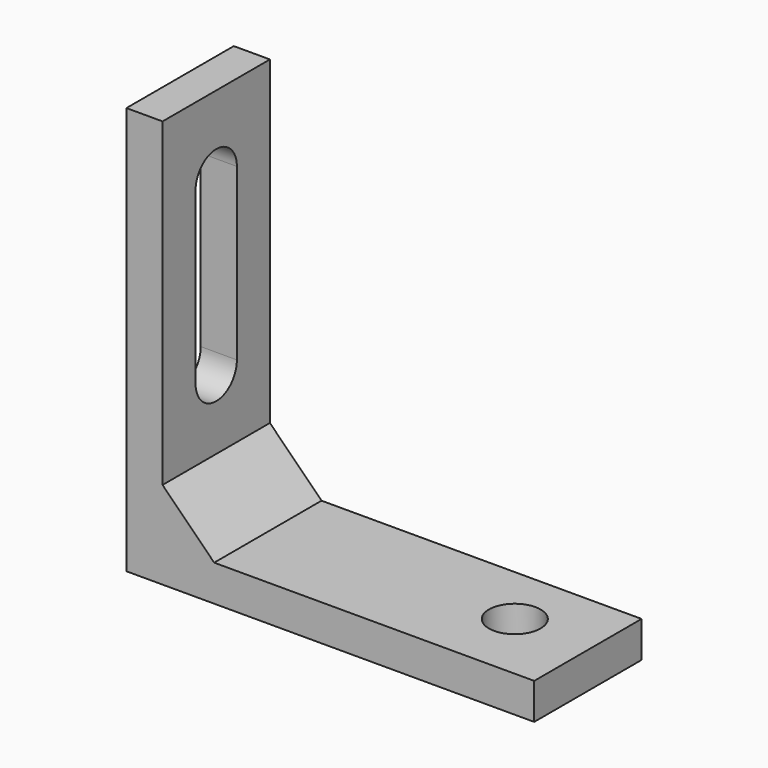
from build123d import *

# Parameters (mm, degrees)
F1_DEPTH = 13
F3_DEPTH = 25
F4_R     = 2.5
F5_DEPTH = 25
F6_SIZE  = 5


with BuildPart() as f1:
    # F0 (on Front) → F1 (new body)
    with BuildSketch(Plane.XZ):
        Polygon((0, -3.5), (0, 0), (-36, 0), (-36, 36), (-39.5, 36), (-39.5, -3.5), align=None)
    extrude(amount=F1_DEPTH)

    # F2 (on face) → F3 (cut)
    with BuildSketch(Plane.YZ.offset(-36)):
        with BuildLine():
            ThreePointArc((-9, 28.5), (-6.5, 26), (-4, 28.5))
            ThreePointArc((-4, 28.5), (-6.5, 31), (-9, 28.5))
        make_face()
        with BuildLine():
            Line((-4, 12), (-4, 28.5))
            ThreePointArc((-4, 28.5), (-6.5, 26), (-9, 28.5))
            Line((-9, 28.5), (-9, 12))
            ThreePointArc((-9, 12), (-6.5, 14.5), (-4, 12))
        make_face()
        with BuildLine():
            ThreePointArc((-9, 12), (-6.5, 9.5), (-4, 12))
            ThreePointArc((-4, 12), (-6.5, 14.5), (-9, 12))
        make_face()
    extrude(amount=-F3_DEPTH, mode=Mode.SUBTRACT)

    # F4 (on face) → F5 (cut)
    with BuildSketch(Plane.XY):
        with Locations((-7.483315, -6)):
            Circle(F4_R)
    extrude(amount=-F5_DEPTH, mode=Mode.SUBTRACT)

    # F6
    f6_edges = [f1.edges().sort_by_distance(p)[0] for p in [
        (-36, -6.5, 0),
    ]]
    chamfer(f6_edges, length=F6_SIZE)


solid = f1.part
